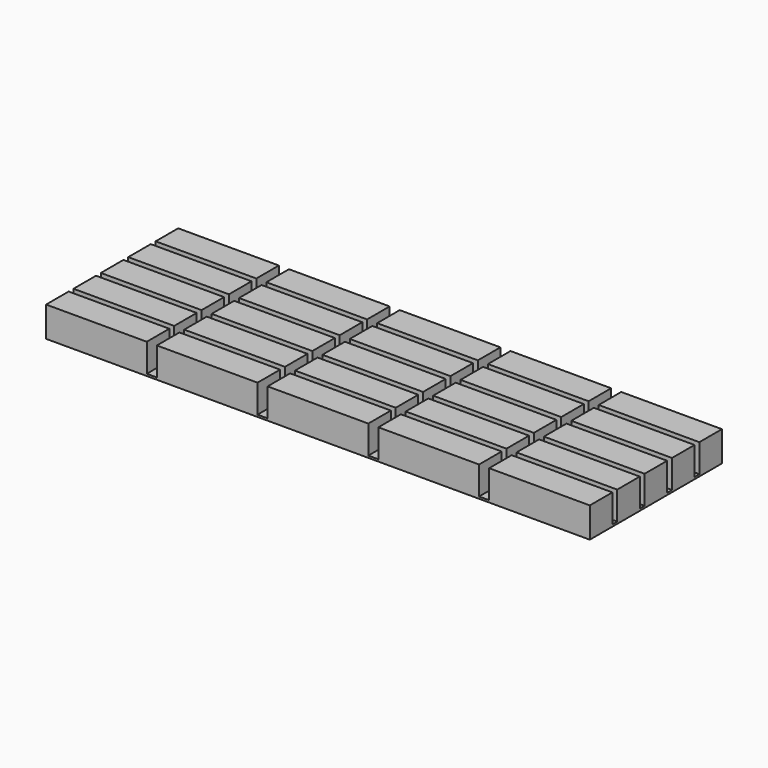
from build123d import *

# Parameters (mm, degrees)
F1_W     = 54
F1_H     = 16.4
F2_DEPTH = 0.2
F0_W     = 10
F0_H     = 2.8
F3_DEPTH = 3


with BuildPart() as f2:
    # F1 (on Top) → F2 (new body)
    with BuildSketch(Plane.XY):
        with Locations((27, 8.2)):
            Rectangle(F1_W, F1_H)
    extrude(amount=F2_DEPTH)

    # F0 (on Top) → F3 (join)
    with BuildSketch(Plane.XY):
        with Locations((5, 1.4)):
            Rectangle(F0_W, F0_H)
        with Locations((5, 4.8)):
            Rectangle(F0_W, F0_H)
        with Locations((5, 8.2)):
            Rectangle(F0_W, F0_H)
        with Locations((5, 11.6)):
            Rectangle(F0_W, F0_H)
        with Locations((5, 15)):
            Rectangle(F0_W, F0_H)
        with Locations((16, 1.4)):
            Rectangle(F0_W, F0_H)
        with Locations((16, 4.8)):
            Rectangle(F0_W, F0_H)
        with Locations((16, 8.2)):
            Rectangle(F0_W, F0_H)
        with Locations((16, 11.6)):
            Rectangle(F0_W, F0_H)
        with Locations((16, 15)):
            Rectangle(F0_W, F0_H)
        with Locations((27, 1.4)):
            Rectangle(F0_W, F0_H)
        with Locations((27, 4.8)):
            Rectangle(F0_W, F0_H)
        with Locations((27, 8.2)):
            Rectangle(F0_W, F0_H)
        with Locations((27, 11.6)):
            Rectangle(F0_W, F0_H)
        with Locations((27, 15)):
            Rectangle(F0_W, F0_H)
        with Locations((38, 1.4)):
            Rectangle(F0_W, F0_H)
        with Locations((38, 4.8)):
            Rectangle(F0_W, F0_H)
        with Locations((38, 8.2)):
            Rectangle(F0_W, F0_H)
        with Locations((38, 11.6)):
            Rectangle(F0_W, F0_H)
        with Locations((38, 15)):
            Rectangle(F0_W, F0_H)
        with Locations((49, 1.4)):
            Rectangle(F0_W, F0_H)
        with Locations((49, 4.8)):
            Rectangle(F0_W, F0_H)
        with Locations((49, 8.2)):
            Rectangle(F0_W, F0_H)
        with Locations((49, 11.6)):
            Rectangle(F0_W, F0_H)
        with Locations((49, 15)):
            Rectangle(F0_W, F0_H)
    extrude(amount=F3_DEPTH)


solid = f2.part
